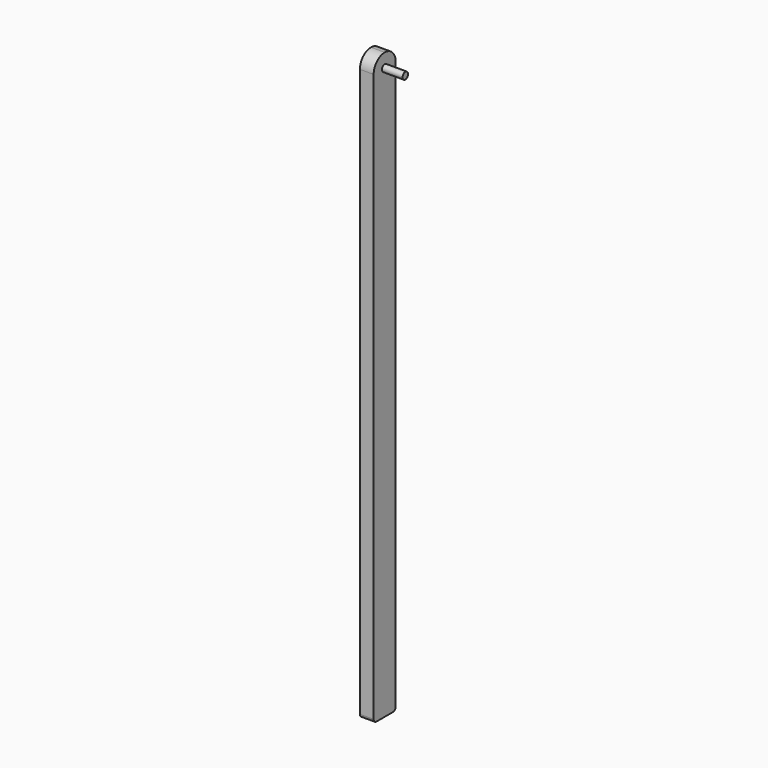
from build123d import *

# Parameters (mm, degrees)
F0_R     = 4.987569
F1_DEPTH = 20
F2_DEPTH = 50


with BuildPart() as f1:
    # F0 (on Right) → F1 (new body)
    with BuildSketch(Plane.YZ):
        with BuildLine():
            ThreePointArc((-20, -420), (-18.535534, -423.535534), (-15, -425))
            Line((-15, -425), (15, -425))
            ThreePointArc((15, -425), (18.535534, -423.535534), (20, -420))
            Line((20, -420), (20, 405))
            ThreePointArc((20, 405), (14.142136, 419.142136), (0, 425))
            ThreePointArc((0, 425), (-14.142136, 419.142136), (-20, 405))
            Line((-20, 405), (-20, -420))
        make_face()
        with Locations((0, 405)):
            Circle(F0_R, mode=Mode.SUBTRACT)
    extrude(amount=F1_DEPTH)

    # F0 (on Right) → F2 (join)
    with BuildSketch(Plane.YZ):
        with Locations((0, 405)):
            Circle(F0_R)
    extrude(amount=F2_DEPTH)


solid = f1.part
